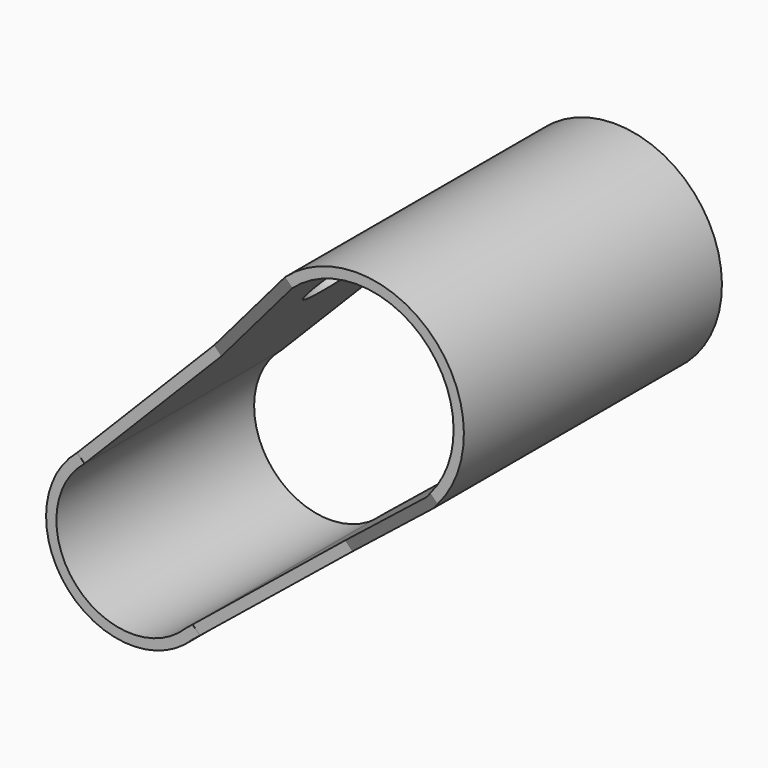
from build123d import *

# Parameters (mm, degrees)
F1_DEPTH = 47.752
F3_DEPTH = 125.8997323481
F5_W     = 28.5765696317
F5_H     = 79.3209560215
F6_DEPTH = 128.4397323481
F2_R     = 17.5244442396
F7_DEPTH = 3.0480007527


with BuildPart() as f1:
    # F0 (on Front) → F1 (new body, symmetric)
    with BuildSketch(Plane.XZ):
        with BuildLine():
            ThreePointArc((-61.5604854778, -17.279496366), (-64.1340028036, -53.9436351961), (-27.3913528199, -54.8708567219))
            Line((-27.3913528199, -54.8708567219), (16.5702632333, -19.2516883407))
            Line((16.5702632333, -19.2516883407), (14.5168037691, -16.992563549))
            Line((14.5168037691, -16.992563549), (-29.4344777615, -52.603358555))
            ThreePointArc((-29.4344777615, -52.603358555), (-61.8778750989, -51.8941968791), (-59.4991920915, -19.5303465483))
            Line((-59.4991920915, -19.5303465483), (-19.8167012668, 20.779631988))
            Line((-19.8167012668, 20.779631988), (-21.8700110068, 23.0385920597))
            Line((-21.8700110068, 23.0385920597), (-61.5604854778, -17.279496366))
        make_face()
        Polygon((14.5168037691, -16.992563549), (16.5702632333, -19.2516883407), (60.5318792866, 16.3674800405), (58.5385509124, 18.675325048), align=None)
        Polygon((17.8204634643, 63.3566804854), (-21.8700110068, 23.0385920597), (-19.8167012668, 20.779631988), (19.9267067724, 61.151491005), align=None)
        with BuildLine():
            Line((58.5385509124, 18.675325048), (60.5318792866, 16.3674800405))
            ThreePointArc((60.5318792866, 16.3674800405), (62.5637295367, 61.1204909666), (17.8204634643, 63.3566804854))
            Line((17.8204634643, 63.3566804854), (19.9267067724, 61.151491005))
            ThreePointArc((19.9267067724, 61.151491005), (60.3075985546, 59.0710562617), (58.5385509124, 18.675325048))
        make_face()
    extrude(amount=F1_DEPTH, both=True)

    # F2 (on face) → F3 (cut, through all)
    with BuildSketch(Plane(origin=(-22.624429106, 0, 22.272244566), x_dir=(0, -1, 0), z_dir=(-0.7126316385, 0, 0.7015384151))):
        Polygon((47.752, 2.3330547172), (47.752, 57.6517147172), (25.4, 2.3330547172), (25.4, -55.5009612218), (47.752, -55.5009612218), align=None)
    extrude(amount=-F3_DEPTH, mode=Mode.SUBTRACT)

    # F5 (on offset) → F6 (cut, through all)
    with BuildSketch(Plane(origin=(-24.4345134677, 0, 24.0541521404), x_dir=(0, -1, 0), z_dir=(-0.7126316385, 0, 0.7015384151))):
        with Locations((39.7184668109, -94.0875317901)):
            Rectangle(F5_W, F5_H)
    extrude(amount=-F6_DEPTH, mode=Mode.SUBTRACT)

    # F2 (on face) → F7 (cut, through all)
    with BuildSketch(Plane(origin=(-22.624429106, 0, 22.272244566), x_dir=(0, -1, 0), z_dir=(-0.7126316385, 0, 0.7015384151))):
        with Locations((0, 34.1488756239)):
            Circle(F2_R)
    extrude(amount=-F7_DEPTH, mode=Mode.SUBTRACT)


solid = f1.part
